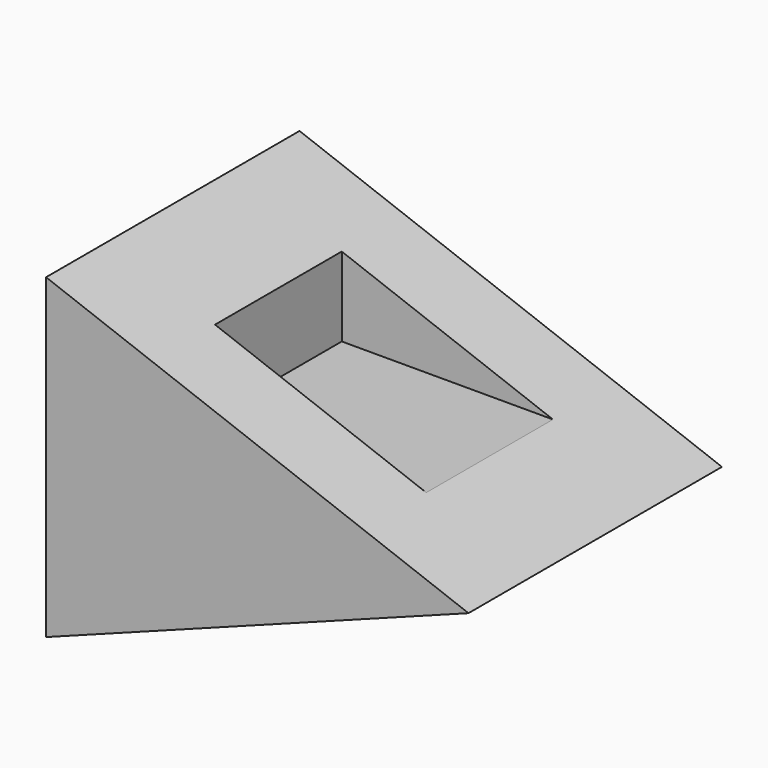
from build123d import *

# Parameters (mm, degrees)
F1_DEPTH = 15
F2_DEPTH = 7.5
F3_DEPTH = 15


with BuildPart() as f1:
    # F0 (on Front) → F1 (new body, symmetric)
    with BuildSketch(Plane.XZ):
        Polygon((40, 15), (0, 0), (40, 0), align=None)
        Polygon((30, 18.75), (10, 26.25), (10, 18.75), align=None)
        Polygon((0, 30), (0, 0), (40, 15), (30, 18.75), (10, 18.75), (10, 26.25), align=None)
    extrude(amount=F1_DEPTH, both=True)

    # F0 (on Front) → F2 (cut, symmetric)
    with BuildSketch(Plane.XZ):
        Polygon((30, 18.75), (10, 26.25), (10, 18.75), align=None)
    extrude(amount=F2_DEPTH, both=True, mode=Mode.SUBTRACT)

    # F0 (on Front) → F3 (cut, symmetric)
    with BuildSketch(Plane.XZ):
        Polygon((40, 15), (0, 0), (40, 0), align=None)
    extrude(amount=F3_DEPTH, both=True, mode=Mode.SUBTRACT)


solid = f1.part
